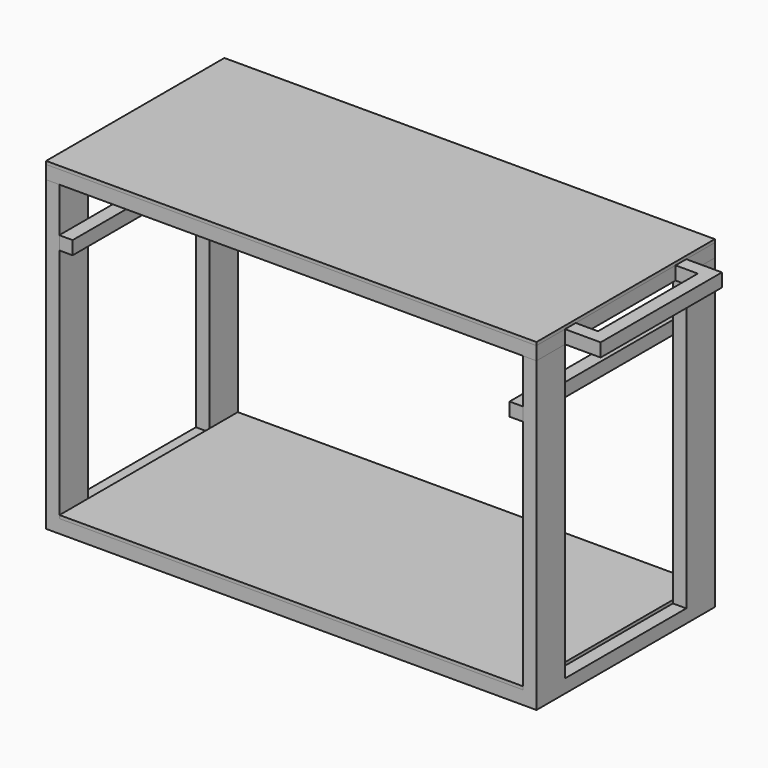
from build123d import *

# Parameters (mm, degrees)
F0_W      = 1397
F0_H      = 635
F0_W_2    = 1193.8
F0_H_2    = 431.8
F1_DEPTH  = 38.1
F2_W      = 38.1
F2_H      = 101.6
F3_DEPTH  = 838.2
F5_W      = 1397
F5_H      = 635
F5_W_2    = 1192.6560401917
F5_H_2    = 430.1391839981
F6_DEPTH  = 38.1
F7_W      = 101.6
F7_H      = 38.1
F8_DEPTH  = 431.8
F9_W      = 101.6
F9_H      = 38.1
F10_DEPTH = 431.8
F11_W     = 38.1
F11_H     = 38.1
F12_DEPTH = 101.6
F13_W     = 38.1
F13_H     = 38.1
F14_DEPTH = 358.14
F15_W     = 38.1
F15_H     = 38.1
F16_DEPTH = 635
F17_W     = 1320.8
F17_H     = 635
F18_DEPTH = 9
F19_W     = 1397
F19_H     = 635
F20_DEPTH = 9
F21_R     = 3.175
F22_DEPTH = 876.046


with BuildPart() as f1:
    # F0 (on Top) → F1 (new body)
    with BuildSketch(Plane.XY):
        Rectangle(F0_W, F0_H)
        Rectangle(F0_W_2, F0_H_2, mode=Mode.SUBTRACT)
    extrude(amount=F1_DEPTH)

    # F2 (on face) → F3 (join)
    with BuildSketch(Plane.XY.offset(38.1)):
        with Locations((-679.45, -266.7)):
            Rectangle(F2_W, F2_H)
        with Locations((-679.45, 266.7)):
            Rectangle(F2_W, F2_H)
        with Locations((679.45, 266.7)):
            Rectangle(F2_W, F2_H)
        with Locations((679.45, -266.7)):
            Rectangle(F2_W, F2_H)
    extrude(amount=F3_DEPTH)

    # F5 (on offset) → F6 (join)
    with BuildSketch(Plane.XY.offset(876.3)):
        with Locations((0.5719799042, -0.8304080009)):
            Rectangle(F5_W, F5_H)
        Rectangle(F5_W_2, F5_H_2, mode=Mode.SUBTRACT)
    extrude(amount=F6_DEPTH)

    # F7 (on face) → F8 (join)
    with BuildSketch(Plane.XZ.offset(-215.0695919991)):
        with Locations((0, 895.35)):
            Rectangle(F7_W, F7_H)
    extrude(amount=F8_DEPTH)

    # F9 (on face) → F10 (join)
    with BuildSketch(Plane(origin=(0, -215.9, 0), x_dir=(-1, 0, 0), z_dir=(0, 1, 0))):
        with Locations((0, 19.05)):
            Rectangle(F9_W, F9_H)
    extrude(amount=F10_DEPTH)

    # F11 (on face) → F12 (join)
    with BuildSketch(Plane.YZ.offset(699.0719799042)):
        with Locations((-197.6804080009, 895.35)):
            Rectangle(F11_W, F11_H)
        with Locations((196.0195919991, 895.35)):
            Rectangle(F11_W, F11_H)
    extrude(amount=F12_DEPTH)

    # F13 (on face) → F14 (join)
    with BuildSketch(Plane(origin=(0, -178.6304080009, 0), x_dir=(-1, 0, 0), z_dir=(0, 1, 0))):
        with Locations((-781.6219799042, 895.35)):
            Rectangle(F13_W, F13_H)
    extrude(amount=F14_DEPTH)

    # F15 (on face) → F16 (join)
    with BuildSketch(Plane(origin=(0, 316.6695919991, 0), x_dir=(-1, 0, 0), z_dir=(0, 1, 0))):
        with Locations((-641.35, 730.25)):
            Rectangle(F15_W, F15_H)
        with Locations((641.35, 730.25)):
            Rectangle(F15_W, F15_H)
    extrude(amount=-F16_DEPTH)

    # F21 (on face) → F22 (join)
    with BuildSketch(Plane.XY.offset(47.1)):
        with Locations((-688.4030200958, 307.975)):
            Circle(F21_R)
        with Locations((689.5469799042, -308.8054080009)):
            Circle(F21_R)
    extrude(amount=F22_DEPTH)


with BuildPart() as f18:
    # F17 (on face) → F18 (new body)
    with BuildSketch(Plane.XY.offset(38.1)):
        Rectangle(F17_W, F17_H)
    extrude(amount=F18_DEPTH)


with BuildPart() as f20:
    # F19 (on face) → F20 (new body)
    with BuildSketch(Plane.XY.offset(914.4)):
        with Locations((0.5719799042, -0.8304080009)):
            Rectangle(F19_W, F19_H)
    extrude(amount=F20_DEPTH)


solid = Compound([f1.part, f18.part, f20.part])
